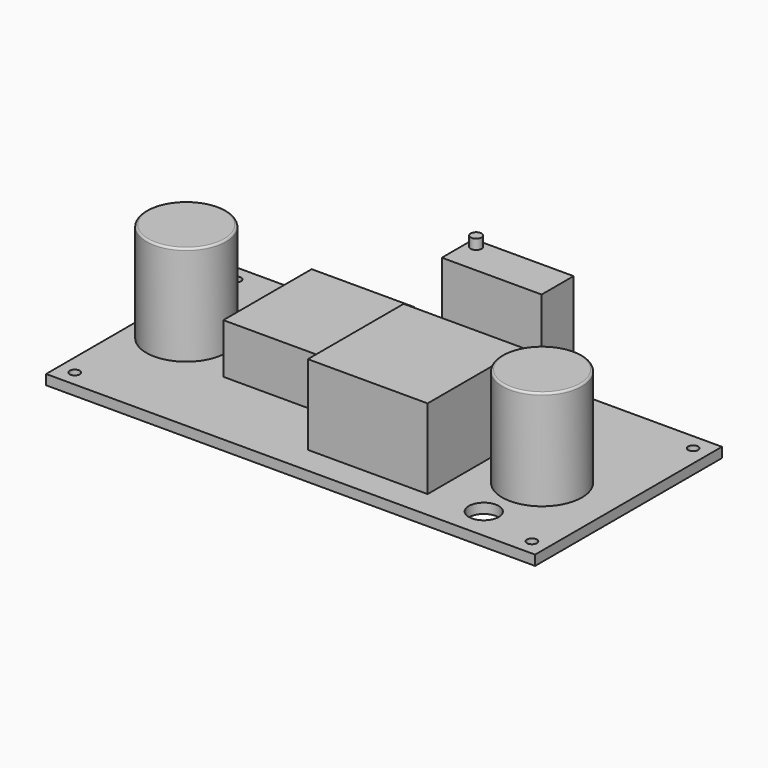
from build123d import *

# Parameters (mm, degrees)
SKETCH_W     = 49
SKETCH_H     = 23.4
SKETCH_R     = 1.5
SKETCH_R_2   = 0.5
PAD_DEPTH    = 1
SKETCH002_R  = 4
PAD001_DEPTH = 10
FILLET_R     = 0.2
SKETCH003_W  = 10.326056
SKETCH003_H  = 11.063627
PAD002_DEPTH = 5
SKETCH006_R  = 4
PAD003_DEPTH = 10
FILLET001_R  = 0.2
SKETCH004_W  = 12
SKETCH004_H  = 12
PAD004_DEPTH = 8
SKETCH007_W  = 10
SKETCH007_H  = 4
PAD005_DEPTH = 11
FILLET002_R  = 0.1
SKETCH008_R  = 0.55
PAD006_DEPTH = 12


with BuildPart() as pad:
    # Sketch → Pad (new body)
    with BuildSketch(Plane.XY):
        Rectangle(SKETCH_W, SKETCH_H)
        with Locations((-17.1, 8.7)):
            Circle(SKETCH_R, mode=Mode.SUBTRACT)
        with Locations((16.8, -8.5)):
            Circle(SKETCH_R, mode=Mode.SUBTRACT)
        with Locations((-22.9, -10.1)):
            Circle(SKETCH_R_2, mode=Mode.SUBTRACT)
        with Locations((22.9, 10.1)):
            Circle(SKETCH_R_2, mode=Mode.SUBTRACT)
        with Locations((-22.9, 10.1)):
            Circle(SKETCH_R_2, mode=Mode.SUBTRACT)
        with Locations((22.9, -10.1)):
            Circle(SKETCH_R_2, mode=Mode.SUBTRACT)
    extrude(amount=PAD_DEPTH)


with BuildPart() as fillet_body:
    # Sketch002 → Pad001 (new body)
    with BuildSketch(Plane.XY):
        with Locations((-19.728634, -0.104942)):
            Circle(SKETCH002_R)
    extrude(amount=PAD001_DEPTH)

    # Fillet
    fillet_edges = [fillet_body.edges().sort_by_distance(p)[0] for p in [
        (-23.728634, -0.104942, 10),
    ]]
    fillet(fillet_edges, radius=FILLET_R)


with BuildPart() as pad002:
    # Sketch003 → Pad002 (new body)
    with BuildSketch(Plane.XY):
        with Locations((-8.205522, 2.120528)):
            Rectangle(SKETCH003_W, SKETCH003_H)
    extrude(amount=PAD002_DEPTH)


with BuildPart() as fillet001:
    # Sketch006 → Pad003 (new body)
    with BuildSketch(Plane.XY):
        with Locations((17.318637, -1.850059)):
            Circle(SKETCH006_R)
    extrude(amount=PAD003_DEPTH)

    # Fillet001
    fillet001_edges = [fillet001.edges().sort_by_distance(p)[0] for p in [
        (13.318637, -1.850059, 10),
    ]]
    fillet(fillet001_edges, radius=FILLET001_R)


with BuildPart() as pad004:
    # Sketch004 → Pad004 (new body)
    with BuildSketch(Plane.XY):
        with Locations((5.525668, -2.944154)):
            Rectangle(SKETCH004_W, SKETCH004_H)
    extrude(amount=PAD004_DEPTH)


with BuildPart() as pad005:
    # Sketch007 → Pad005 (new body)
    with BuildSketch(Plane.XY):
        with Locations((5.569451, 8.53193)):
            Rectangle(SKETCH007_W, SKETCH007_H)
    extrude(amount=PAD005_DEPTH)


with BuildPart() as fillet002:
    # Fillet002 base: copy of Pad005
    add(pad005.part)

    # Fillet002
    fillet002_edges = [fillet002.edges().sort_by_distance(p)[0] for p in [
        (5.569451, 10.53193, 11),
        (10.569451, 8.53193, 11),
        (5.569451, 6.53193, 11),
        (0.569451, 8.53193, 11),
    ]]
    fillet(fillet002_edges, radius=FILLET002_R)


with BuildPart() as pad006:
    # Sketch008 → Pad006 (new body)
    with BuildSketch(Plane.XY):
        with Locations((1.516289, 9.651992)):
            Circle(SKETCH008_R)
    extrude(amount=PAD006_DEPTH)


with BuildPart() as clone_of_pad006:
    # Clone base: copy of Pad006
    add(pad006.part)


with BuildPart() as clone_of_pad006_1:
    # Clone placement: moved
    add(clone_of_pad006.part.moved(Location((0, 0, 1))))


with BuildPart() as clone_of_pad005:
    # Clone001 base: copy of Pad005
    add(pad005.part)


with BuildPart() as clone_of_pad005_1:
    # Clone001 placement: moved
    add(clone_of_pad005.part.moved(Location((0, 0, 1))))


with BuildPart() as clone_of_pad004:
    # Clone002 base: copy of Pad004
    add(pad004.part)


with BuildPart() as clone_of_pad004_1:
    # Clone002 placement: moved
    add(clone_of_pad004.part.moved(Location((0, 0, 1))))


with BuildPart() as clone_of_fillet001:
    # Clone003 base: copy of Fillet001
    add(fillet001.part)


with BuildPart() as clone_of_fillet001_1:
    # Clone003 placement: moved
    add(clone_of_fillet001.part.moved(Location((0, 0, 1))))


with BuildPart() as clone_of_pad002:
    # Clone004 base: copy of Pad002
    add(pad002.part)


with BuildPart() as clone_of_pad002_1:
    # Clone004 placement: moved
    add(clone_of_pad002.part.moved(Location((0, 0, 1))))


with BuildPart() as clone_of_fillet:
    # Clone005 base: copy of Fillet body
    add(fillet_body.part)


with BuildPart() as clone_of_fillet_1:
    # Clone005 placement: moved
    add(clone_of_fillet.part.moved(Location((0, 0, 1))))


solid = Compound([pad.part, fillet_body.part, pad002.part, fillet001.part, pad004.part, fillet002.part, pad006.part, clone_of_pad006_1.part, clone_of_pad005_1.part, clone_of_pad004_1.part, clone_of_fillet001_1.part, clone_of_pad002_1.part, clone_of_fillet_1.part])
